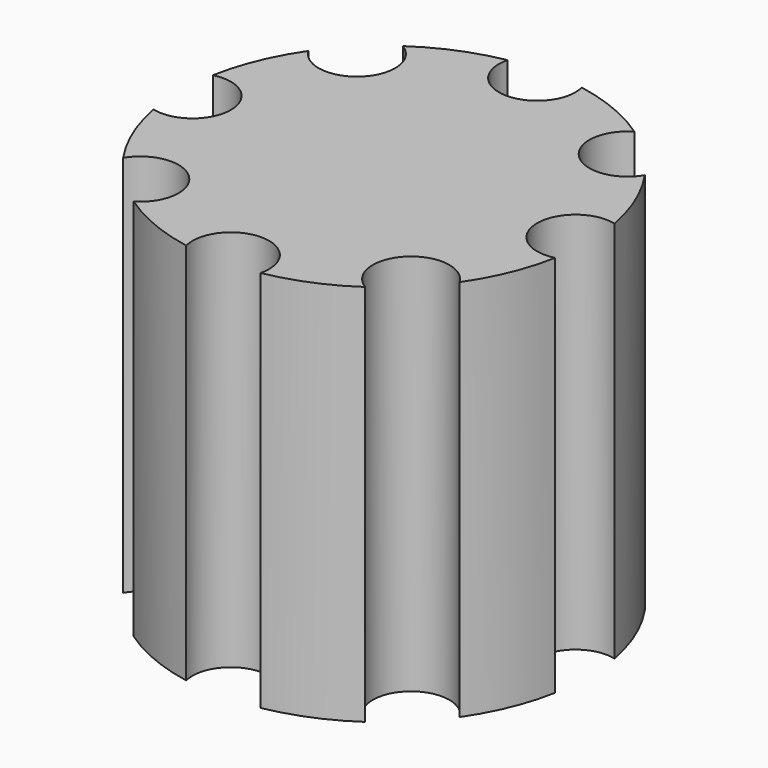
from build123d import *

# Parameters (mm, degrees)
CYLINDER001_R     = 1.5
CYLINDER001_DEPTH = 30
ARRAY_COUNT       = 8
CYLINDER_R        = 8
CYLINDER_DEPTH    = 15


with BuildPart() as array:
    # Cylinder001 → Cylinder001 (new body)
    with BuildSketch(Plane(origin=(7.5, 0, 0), x_dir=(1, 0, 0), z_dir=(0, 0, 1))):
        Circle(CYLINDER001_R)
    extrude(amount=CYLINDER001_DEPTH)

    # Array: Array ×8 about axis
    array_axis = Axis((0, 0, 0), (0, 0, 1))


with BuildPart() as array_1:
    add(array.part)
    for i in range(1, ARRAY_COUNT):
        add(array.part.rotate(array_axis, i * 360 / ARRAY_COUNT))


with BuildPart() as cut:
    # Cylinder → Cylinder (new body)
    with BuildSketch(Plane.XY):
        Circle(CYLINDER_R)
    extrude(amount=CYLINDER_DEPTH)

    # Cut: cut Array
    add(array_1.part, mode=Mode.SUBTRACT)


solid = cut.part
